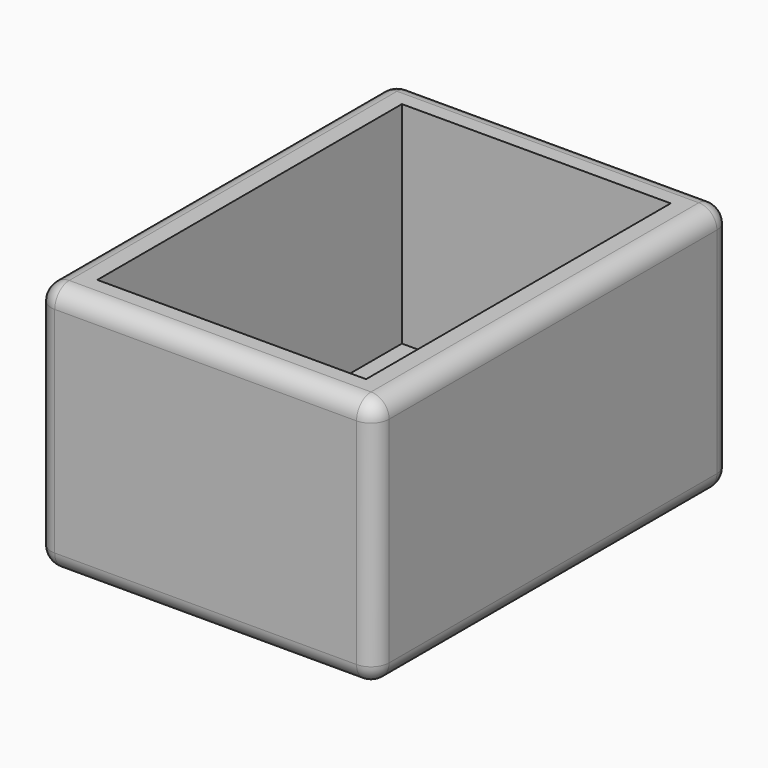
from build123d import *

# Parameters (mm, degrees)
F0_W     = 94.869002
F0_H     = 125.158504
F1_DEPTH = 70.358
F2_W     = 75.438
F2_H     = 106.870502
F3_DEPTH = 59.182
F4_R     = 5.08


with BuildPart() as f1:
    # F0 (on Top) → F1 (new body)
    with BuildSketch(Plane.XY):
        Rectangle(F0_W, F0_H)
    extrude(amount=F1_DEPTH)

    # F2 (on face) → F3 (cut)
    with BuildSketch(Plane.XY.offset(70.358)):
        Rectangle(F2_W, F2_H)
    extrude(amount=-F3_DEPTH, mode=Mode.SUBTRACT)

    # F4
    f4_edges = [f1.edges().sort_by_distance(p)[0] for p in [
        (47.434501, 62.579252, 35.179),
        (0, 62.579252, 70.358),
        (-47.434501, 0, 70.358),
        (0, -62.579252, 70.358),
        (47.434501, -62.579252, 35.179),
        (47.434501, 0, 0),
        (47.434501, 0, 70.358),
        (-47.434501, -62.579252, 35.179),
        (0, -62.579252, 0),
        (-47.434501, 62.579252, 35.179),
        (-47.434501, 0, 0),
        (0, 62.579252, 0),
    ]]
    fillet(f4_edges, radius=F4_R)


solid = f1.part
